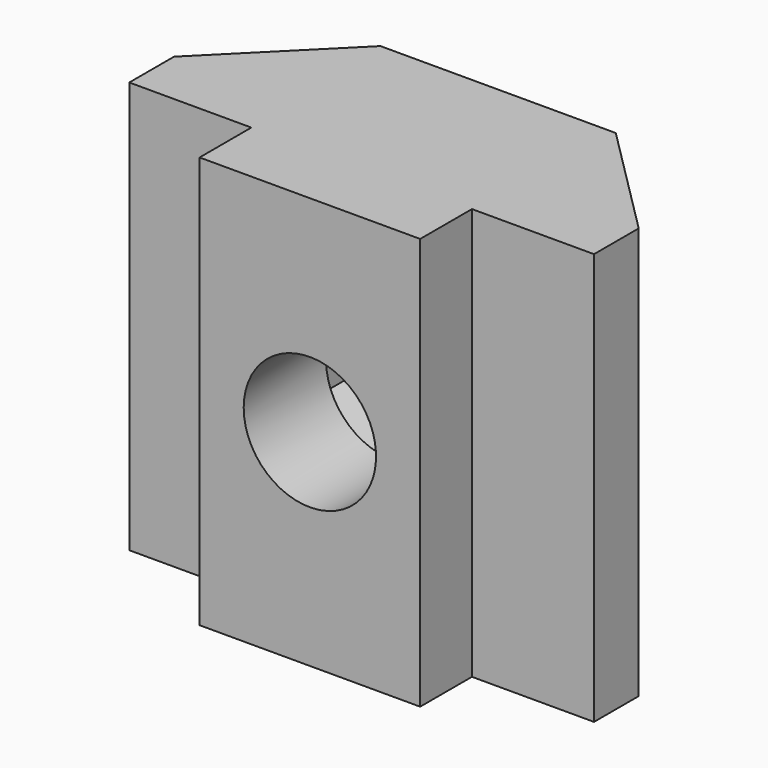
from build123d import *

# Parameters (mm, degrees)
PAD004_DEPTH    = 14
POCKET002_DEPTH = 4.5
SKETCH007_R     = 2.25
HOLE002_DEPTH   = 25


with BuildPart() as part:
    # Sketch009 → Pad004 (new body)
    with BuildSketch(Plane.XY):
        Polygon((0, 0), (0, 8), (-4, 8), (-7.9, 4.1), (-7.9, 2.2), (-3.75, 2.2), (-3.75, 0), align=None)
    pad004 = extrude(amount=PAD004_DEPTH)

    # Mirrored002: Pad004 across Sketch009 V_Axis
    add(pad004.mirror(Plane(origin=(0, 0, 0), x_dir=(0, 0, 1), z_dir=(1, 0, 0))))

    # Sketch008 (on DatumPlane) → Pocket002 (cut)
    with BuildSketch(Plane(origin=(0, 8, 0), x_dir=(-1, 0, 0), z_dir=(0, 1, 0))):
        Polygon((0, 2.727608), (3.7, 4.863804), (3.7, 9.136196), (0, 11.272392), (-3.7, 9.136196), (-3.7, 4.863804), align=None)
    extrude(amount=-POCKET002_DEPTH, mode=Mode.SUBTRACT)

    # Sketch007 (on DatumPlane) → Hole002 (cut)
    with BuildSketch(Plane(origin=(0, 8, 0), x_dir=(-1, 0, 0), z_dir=(0, 1, 0))):
        with Locations((0, 7)):
            Circle(SKETCH007_R)
    extrude(amount=-HOLE002_DEPTH, mode=Mode.SUBTRACT)


solid = part.part
